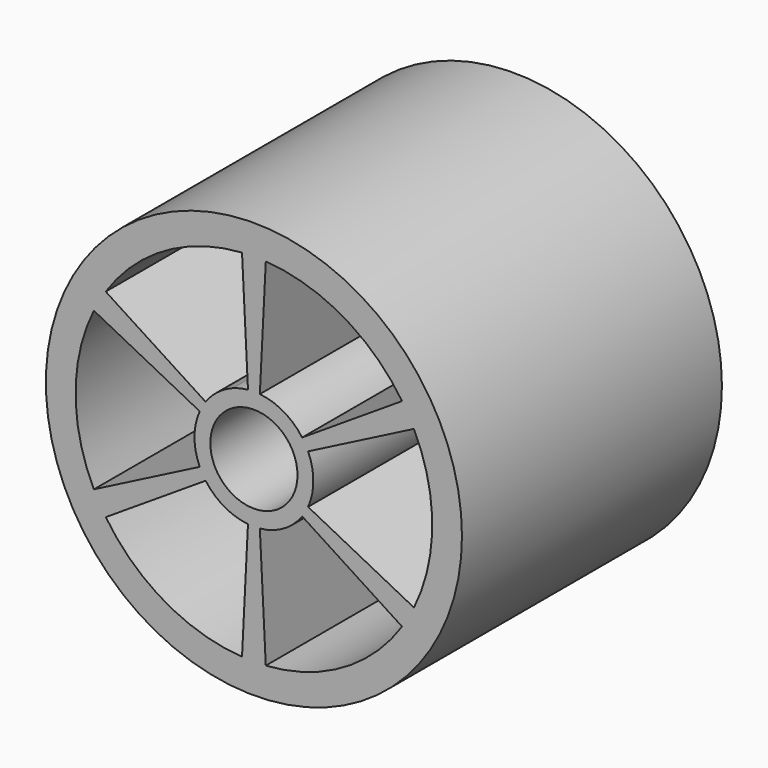
from build123d import *

# Parameters (mm, degrees)
F0_R     = 26.25
F1_DEPTH = 41


with BuildPart() as f1:
    # F0 (on Front) → F1 (new body)
    with BuildSketch(Plane.XZ):
        Circle(F0_R)
        with BuildLine():
            ThreePointArc((-1.5, -22.449944), (-11.250362, -19.485363), (-18.692687, -12.523316))
            Line((-18.692687, -12.523316), (-6.088184, -4.379957))
            ThreePointArc((-6.088184, -4.379957), (-3.75, -6.495191), (-0.749062, -7.4625))
            Line((-0.749062, -7.4625), (-1.5, -22.449944))
        make_face(mode=Mode.SUBTRACT)
        with BuildLine():
            ThreePointArc((18.692222, -12.52401), (11.249638, -19.48578), (1.499166, -22.45))
            Line((1.499166, -22.45), (0.749062, -7.4625))
            ThreePointArc((0.749062, -7.4625), (3.75, -6.495191), (6.088184, -4.379957))
            Line((6.088184, -4.379957), (18.692222, -12.52401))
        make_face(mode=Mode.SUBTRACT)
        with BuildLine():
            ThreePointArc((20.192222, 9.925934), (22.5, -0.000418), (20.191854, -9.926684))
            Line((20.191854, -9.926684), (6.837246, -3.082543))
            ThreePointArc((6.837246, -3.082543), (7.5, 0), (6.837246, 3.082543))
            Line((6.837246, 3.082543), (20.192222, 9.925934))
        make_face(mode=Mode.SUBTRACT)
        with BuildLine():
            ThreePointArc((-20.192222, -9.925934), (-22.5, 0.000418), (-20.191854, 9.926684))
            Line((-20.191854, 9.926684), (-6.837246, 3.082543))
            ThreePointArc((-6.837246, 3.082543), (-7.5, 0), (-6.837246, -3.082543))
            Line((-6.837246, -3.082543), (-20.192222, -9.925934))
        make_face(mode=Mode.SUBTRACT)
        with BuildLine():
            ThreePointArc((-18.692222, 12.52401), (-11.249638, 19.48578), (-1.499166, 22.45))
            Line((-1.499166, 22.45), (-0.749062, 7.4625))
            ThreePointArc((-0.749062, 7.4625), (-1.737374, 7.295994), (-2.69466, 6.9992))
            ThreePointArc((-2.69466, 6.9992), (-3.75, 6.495191), (-4.714155, 5.833245))
            ThreePointArc((-4.714155, 5.833245), (-5.44983, 5.152607), (-6.088184, 4.379957))
            Line((-6.088184, 4.379957), (-18.692222, 12.52401))
        make_face(mode=Mode.SUBTRACT)
        with BuildLine():
            ThreePointArc((-2.148919, 5.06282), (2.772797, -4.749905), (-3.352022, 4.360498))
            ThreePointArc((-3.352022, 4.360498), (-2.772797, 4.749905), (-2.148919, 5.06282))
        make_face(mode=Mode.SUBTRACT)
        with BuildLine():
            Line((0.749062, 7.4625), (1.5, 22.449944))
            ThreePointArc((1.5, 22.449944), (11.250362, 19.485363), (18.692687, 12.523316))
            Line((18.692687, 12.523316), (6.088184, 4.379957))
            ThreePointArc((6.088184, 4.379957), (3.75, 6.495191), (0.749062, 7.4625))
        make_face(mode=Mode.SUBTRACT)
    extrude(amount=F1_DEPTH)


solid = f1.part
